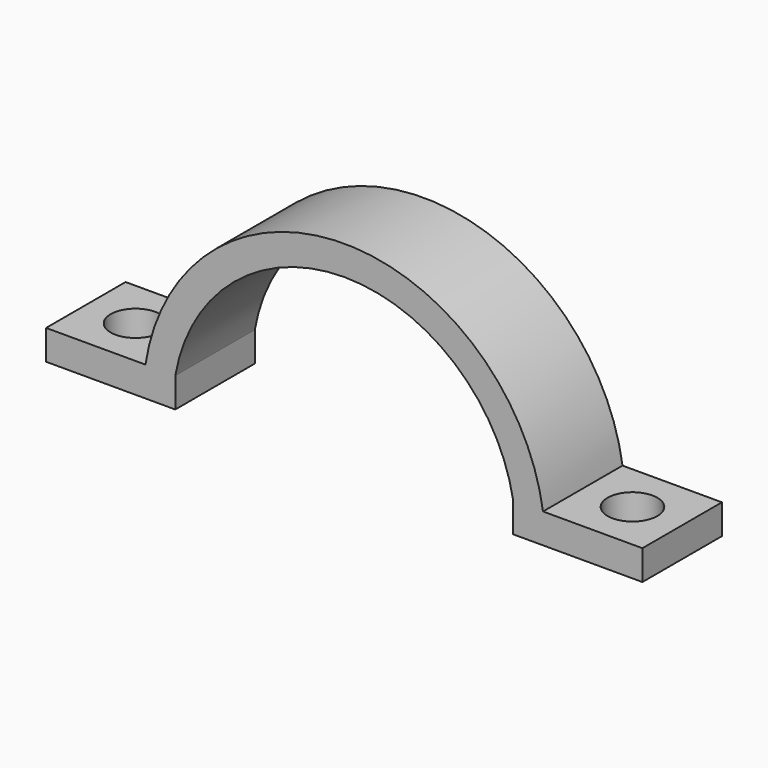
from build123d import *

# Parameters (mm, degrees)
PAD_DEPTH    = 10
SKETCH001_R  = 2.5
POCKET_DEPTH = 3.001


with BuildPart() as part:
    # Sketch → Pad (new body)
    with BuildSketch(Plane.XZ):
        with BuildLine():
            Line((-30, 0), (-17, 0))
            Line((-17, 3), (-17, 0))
            ThreePointArc((17, 3), (0, 17.262677), (-17, 3))
            Line((17, 3), (17, 0))
            Line((17, 0), (30, 0))
            Line((30, 0), (30, 3))
            Line((30, 3), (20, 3))
            ThreePointArc((20, 3), (0, 20.223748), (-20, 3))
            Line((-30, 3), (-20, 3))
            Line((-30, 0), (-30, 3))
        make_face()
    extrude(amount=PAD_DEPTH)

    # Sketch001 (on Face10 of Pad) → Pocket (cut, through all)
    with BuildSketch(Plane(origin=(0, 0, 3), x_dir=(-1, 0, 0), z_dir=(0, 0, 1))):
        with Locations((-25, 5)):
            Circle(SKETCH001_R)
        with Locations((25, 5)):
            Circle(SKETCH001_R)
    extrude(amount=-POCKET_DEPTH, mode=Mode.SUBTRACT)


solid = part.part
